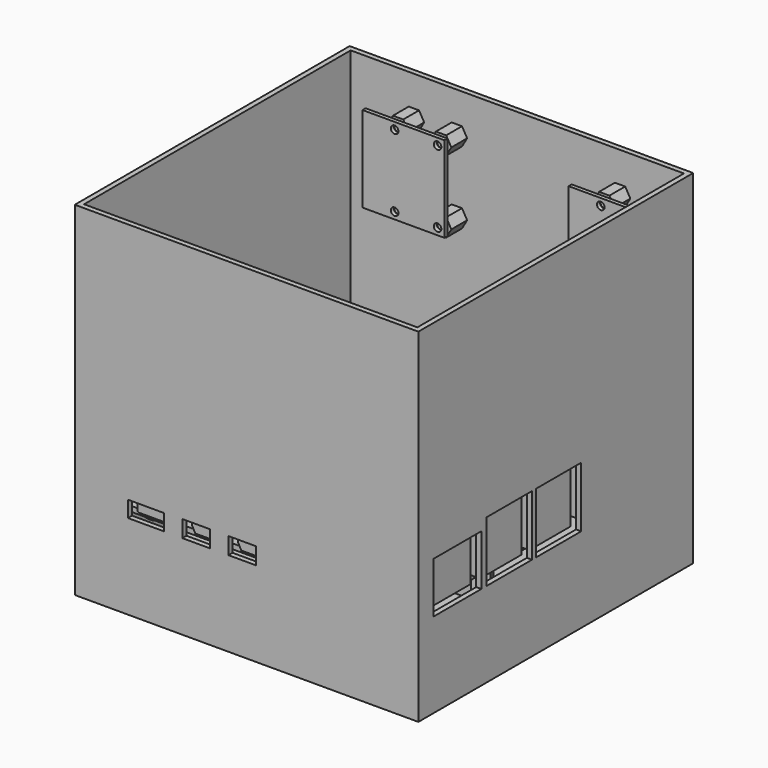
from build123d import *

# Parameters (mm, degrees)
SKETCH_W        = 85
SKETCH_H        = 56
SKETCH_R        = 1.35
PAD_DEPTH       = 1.5
SKETCH001_W     = 19
SKETCH001_H     = 15
PAD001_DEPTH    = 16.1
SKETCH002_W     = 21.25
SKETCH002_H     = 15.93
PAD002_DEPTH    = 13.3
PAD003_DEPTH    = 7.35
SKETCH004_W     = 12
SKETCH004_H     = 1.5
PAD004_DEPTH    = 16
SKETCH005_W     = 23.862
SKETCH005_H     = 25
SKETCH005_R     = 1.1
PAD005_DEPTH    = 1.12
SKETCH007_W     = 10.8
SKETCH007_H     = 10.8
PAD007_DEPTH    = 5.75
SKETCH008_R     = 2.875
PAD008_DEPTH    = 2.5
SKETCH006_W     = 23.862
SKETCH006_H     = 25
SKETCH006_R     = 1.1
PAD006_DEPTH    = 1.12
SKETCH009_W     = 10.8
SKETCH009_H     = 10.8
PAD009_DEPTH    = 5.75
SKETCH010_R     = 2.875
PAD010_DEPTH    = 2.5
SKETCH011_W     = 100
SKETCH011_H     = 100
PAD011_DEPTH    = 100
SKETCH012_W     = 97
SKETCH012_H     = 97
POCKET_DEPTH    = 98.5
SKETCH013_R     = 1.35
PAD012_DEPTH    = 10.5
POCKET001_DEPTH = 2.2
SKETCH015_W     = 17.43
SKETCH015_H     = 14.8
SKETCH015_W_2   = 16.5
SKETCH015_H_2   = 17.6
POCKET002_DEPTH = 1.5
SKETCH016_W     = 10.44
SKETCH016_H     = 4.7
SKETCH016_W_2   = 8
SKETCH016_H_2   = 4.9
POCKET003_DEPTH = 1.5
POCKET004_DEPTH = 1.5
SKETCH018_W     = 11.3
SKETCH018_H     = 11.3
POCKET005_DEPTH = 1.5
SKETCH019_R     = 1.1
PAD013_DEPTH    = 5.75


with BuildPart() as board:
    # Sketch → Pad (new body)
    with BuildSketch(Plane.XY):
        Rectangle(SKETCH_W, SKETCH_H)
        with Locations((-39, 24.5)):
            Circle(SKETCH_R, mode=Mode.SUBTRACT)
        with Locations((19, 24.5)):
            Circle(SKETCH_R, mode=Mode.SUBTRACT)
        with Locations((19, -24.5)):
            Circle(SKETCH_R, mode=Mode.SUBTRACT)
        with Locations((-39, -24.5)):
            Circle(SKETCH_R, mode=Mode.SUBTRACT)
    extrude(amount=-PAD_DEPTH)

    # Sketch001 → Pad001 (join)
    with BuildSketch(Plane.XY):
        with Locations((36, 19)):
            Rectangle(SKETCH001_W, SKETCH001_H)
        with Locations((36, 1.1)):
            Rectangle(SKETCH001_W, SKETCH001_H)
    extrude(amount=PAD001_DEPTH)

    # Sketch002 → Pad002 (join)
    with BuildSketch(Plane.XY):
        with Locations((34.875, -17.8)):
            Rectangle(SKETCH002_W, SKETCH002_H)
    extrude(amount=PAD002_DEPTH)

    # Sketch003 (on DatumPlane) → Pad003 (join)
    with BuildSketch(Plane.XZ.offset(29.5)):
        with BuildLine():
            ThreePointArc((-35.27, 3.2), (-35.623553, 3.053553), (-35.77, 2.7))
            Line((-35.77, 0.5), (-35.77, 2.7))
            ThreePointArc((-35.77, 0.5), (-35.623553, 0.146447), (-35.27, 0))
            Line((-27.33, 0), (-35.27, 0))
            ThreePointArc((-27.33, 0), (-26.976447, 0.146447), (-26.83, 0.5))
            Line((-26.83, 2.7), (-26.83, 0.5))
            ThreePointArc((-26.83, 2.7), (-26.976447, 3.053553), (-27.33, 3.2))
            Line((-35.27, 3.2), (-27.33, 3.2))
        make_face()
        Polygon((-18.92, 0), (-14.48, 0), (-13.45, 1.9), (-13.45, 3.4), (-19.95, 3.4), (-19.95, 1.9), align=None)
        Polygon((-0.05, 3.4), (-6.55, 3.4), (-6.55, 1.9), (-5.52, 0), (-1.08, 0), (-0.05, 1.9), align=None)
    extrude(amount=-PAD003_DEPTH)

    # Sketch004 (on DatumPlane) → Pad004 (join)
    with BuildSketch(Plane.YZ.offset(-44.5)):
        with Locations((0, -2.25)):
            Rectangle(SKETCH004_W, SKETCH004_H)
    extrude(amount=PAD004_DEPTH)


with BuildPart() as camera1:
    # Sketch005 (on DatumPlane) → Pad005 (new body)
    with BuildSketch(Plane.XZ.offset(-59.5)):
        with Locations((-29.531, 52.5)):
            Rectangle(SKETCH005_W, SKETCH005_H)
        with Locations((-32.1, 63)):
            Circle(SKETCH005_R, mode=Mode.SUBTRACT)
        with Locations((-19.6, 63)):
            Circle(SKETCH005_R, mode=Mode.SUBTRACT)
        with Locations((-19.6, 42)):
            Circle(SKETCH005_R, mode=Mode.SUBTRACT)
        with Locations((-32.1, 42)):
            Circle(SKETCH005_R, mode=Mode.SUBTRACT)
    extrude(amount=-PAD005_DEPTH)

    # Sketch007 (on DatumPlane) → Pad007 (join)
    with BuildSketch(Plane.XZ.offset(-60.62)):
        with Locations((-32, 52.5)):
            Rectangle(SKETCH007_W, SKETCH007_H)
    extrude(amount=-PAD007_DEPTH)

    # Sketch008 (on DatumPlane) → Pad008 (join)
    with BuildSketch(Plane.XZ.offset(-66.37)):
        with Locations((-32, 52.5)):
            Circle(SKETCH008_R)
    extrude(amount=-PAD008_DEPTH)


with BuildPart() as camera2:
    # Sketch006 (on DatumPlane) → Pad006 (new body)
    with BuildSketch(Plane.XZ.offset(-59.5)):
        with Locations((30.469, 52.5)):
            Rectangle(SKETCH006_W, SKETCH006_H)
        with Locations((40.4, 63)):
            Circle(SKETCH006_R, mode=Mode.SUBTRACT)
        with Locations((27.9, 63)):
            Circle(SKETCH006_R, mode=Mode.SUBTRACT)
        with Locations((27.9, 42)):
            Circle(SKETCH006_R, mode=Mode.SUBTRACT)
        with Locations((40.4, 42)):
            Circle(SKETCH006_R, mode=Mode.SUBTRACT)
    extrude(amount=-PAD006_DEPTH)

    # Sketch009 (on DatumPlane) → Pad009 (join)
    with BuildSketch(Plane.XZ.offset(-60.62)):
        with Locations((28, 52.5)):
            Rectangle(SKETCH009_W, SKETCH009_H)
    extrude(amount=-PAD009_DEPTH)

    # Sketch010 (on DatumPlane) → Pad010 (join)
    with BuildSketch(Plane.XZ.offset(-66.37)):
        with Locations((28, 52.5)):
            Circle(SKETCH010_R)
    extrude(amount=-PAD010_DEPTH)


with BuildPart() as body003:
    # Sketch011 (on DatumPlane) → Pad011 (new body)
    with BuildSketch(Plane.XY.offset(-25.5)):
        with Locations((-2, 18)):
            Rectangle(SKETCH011_W, SKETCH011_H)
    extrude(amount=PAD011_DEPTH)

    # Sketch012 (on Face6 of Pad011) → Pocket (cut)
    with BuildSketch(Plane.XY.offset(74.5)):
        with Locations((-2, 18)):
            Rectangle(SKETCH012_W, SKETCH012_H)
    extrude(amount=-POCKET_DEPTH, mode=Mode.SUBTRACT)

    # Sketch013 (on DatumPlane) → Pad012 (join)
    with BuildSketch(Plane.XY.offset(-24)):
        Polygon((-36.632864, 20.4), (-34.265728, 24.5), (-36.632864, 28.6), (-41.367136, 28.6), (-43.734272, 24.5), (-41.367136, 20.4), align=None)
        with Locations((-39, 24.5)):
            Circle(SKETCH013_R, mode=Mode.SUBTRACT)
        Polygon((16.632864, 20.4), (21.367136, 20.4), (23.734272, 24.5), (21.367136, 28.6), (16.632864, 28.6), (14.265728, 24.5), align=None)
        with Locations((19, 24.5)):
            Circle(SKETCH013_R, mode=Mode.SUBTRACT)
        Polygon((23.734272, -24.5), (21.367136, -20.4), (16.632864, -20.4), (14.265728, -24.5), (16.632864, -28.6), (21.367136, -28.6), align=None)
        with Locations((19, -24.5)):
            Circle(SKETCH013_R, mode=Mode.SUBTRACT)
        Polygon((-41.367136, -20.4), (-43.734272, -24.5), (-41.367136, -28.6), (-36.632864, -28.6), (-34.265728, -24.5), (-36.632864, -20.4), align=None)
        with Locations((-39, -24.5)):
            Circle(SKETCH013_R, mode=Mode.SUBTRACT)
    extrude(amount=PAD012_DEPTH)

    # Sketch014 (on DatumPlane) → Pocket001 (cut)
    with BuildSketch(Plane.XY.offset(-13.5)):
        Polygon((-35.997779, 24.5), (-37.498889, 27.1), (-40.501111, 27.1), (-42.002221, 24.5), (-40.501111, 21.9), (-37.498889, 21.9), align=None)
        Polygon((22.002221, 24.5), (20.501111, 27.1), (17.498889, 27.1), (15.997779, 24.5), (17.498889, 21.9), (20.501111, 21.9), align=None)
        Polygon((-35.997779, -24.5), (-37.498889, -21.9), (-40.501111, -21.9), (-42.002221, -24.5), (-40.501111, -27.1), (-37.498889, -27.1), align=None)
        Polygon((17.498889, -21.9), (15.997779, -24.5), (17.498889, -27.1), (20.501111, -27.1), (22.002221, -24.5), (20.501111, -21.9), align=None)
    extrude(amount=-POCKET001_DEPTH, mode=Mode.SUBTRACT)

    # Sketch015 (on DatumPlane) → Pocket002 (cut)
    with BuildSketch(Plane.YZ.offset(48)):
        with Locations((-17.8, 6.65)):
            Rectangle(SKETCH015_W, SKETCH015_H)
        with Locations((1.1, 8.05)):
            Rectangle(SKETCH015_W_2, SKETCH015_H_2)
        with Locations((19, 8.05)):
            Rectangle(SKETCH015_W_2, SKETCH015_H_2)
    extrude(amount=-POCKET002_DEPTH, mode=Mode.SUBTRACT)

    # Sketch016 (on DatumPlane) → Pocket003 (cut)
    with BuildSketch(Plane.XZ.offset(32)):
        with Locations((-31.3, 1.6)):
            Rectangle(SKETCH016_W, SKETCH016_H)
        with Locations((-16.7, 1.7)):
            Rectangle(SKETCH016_W_2, SKETCH016_H_2)
        with Locations((-3.3, 1.7)):
            Rectangle(SKETCH016_W_2, SKETCH016_H_2)
    extrude(amount=-POCKET003_DEPTH, mode=Mode.SUBTRACT)

    # Sketch017 (on DatumPlane) → Pocket004 (cut)
    with BuildSketch(Plane.YZ.offset(-52)):
        with BuildLine():
            ThreePointArc((-12, -6), (0, -18), (12, -6))
            Line((12, -6), (12, 0))
            Line((-12, 0), (12, 0))
            Line((-12, 0), (-12, -6))
        make_face()
    extrude(amount=POCKET004_DEPTH, mode=Mode.SUBTRACT)

    # Sketch018 (on DatumPlane) → Pocket005 (cut)
    with BuildSketch(Plane.XZ.offset(-68)):
        with Locations((-32, 52.5)):
            Rectangle(SKETCH018_W, SKETCH018_H)
        with Locations((28, 52.5)):
            Rectangle(SKETCH018_W, SKETCH018_H)
    extrude(amount=POCKET005_DEPTH, mode=Mode.SUBTRACT)

    # Sketch019 (on DatumPlane) → Pad013 (join)
    with BuildSketch(Plane.XZ.offset(-66.5)):
        Polygon((26.398889, 65.6), (24.897779, 63), (26.398889, 60.4), (29.401111, 60.4), (30.902221, 63), (29.401111, 65.6), align=None)
        with Locations((27.9, 63)):
            Circle(SKETCH019_R, mode=Mode.SUBTRACT)
        Polygon((43.402221, 63), (41.901111, 65.6), (38.898889, 65.6), (37.397779, 63), (38.898889, 60.4), (41.901111, 60.4), align=None)
        with Locations((40.4, 63)):
            Circle(SKETCH019_R, mode=Mode.SUBTRACT)
        Polygon((26.398889, 44.6), (24.897779, 42), (26.398889, 39.4), (29.401111, 39.4), (30.902221, 42), (29.401111, 44.6), align=None)
        with Locations((27.9, 42)):
            Circle(SKETCH019_R, mode=Mode.SUBTRACT)
        Polygon((41.901111, 44.6), (38.898889, 44.6), (37.397779, 42), (38.898889, 39.4), (41.901111, 39.4), (43.402221, 42), align=None)
        with Locations((40.4, 42)):
            Circle(SKETCH019_R, mode=Mode.SUBTRACT)
        Polygon((-18.098889, 60.4), (-16.597779, 63), (-18.098889, 65.6), (-21.101111, 65.6), (-22.602221, 63), (-21.101111, 60.4), align=None)
        with Locations((-19.6, 63)):
            Circle(SKETCH019_R, mode=Mode.SUBTRACT)
        Polygon((-30.598889, 60.4), (-29.097779, 63), (-30.598889, 65.6), (-33.601111, 65.6), (-35.102221, 63), (-33.601111, 60.4), align=None)
        with Locations((-32.1, 63)):
            Circle(SKETCH019_R, mode=Mode.SUBTRACT)
        Polygon((-30.598889, 44.6), (-33.601111, 44.6), (-35.102221, 42), (-33.601111, 39.4), (-30.598889, 39.4), (-29.097779, 42), align=None)
        with Locations((-32.1, 42)):
            Circle(SKETCH019_R, mode=Mode.SUBTRACT)
        Polygon((-21.101111, 44.6), (-22.602221, 42), (-21.101111, 39.4), (-18.098889, 39.4), (-16.597779, 42), (-18.098889, 44.6), align=None)
        with Locations((-19.6, 42)):
            Circle(SKETCH019_R, mode=Mode.SUBTRACT)
    extrude(amount=PAD013_DEPTH)


solid = Compound([board.part, camera1.part, camera2.part, body003.part])
